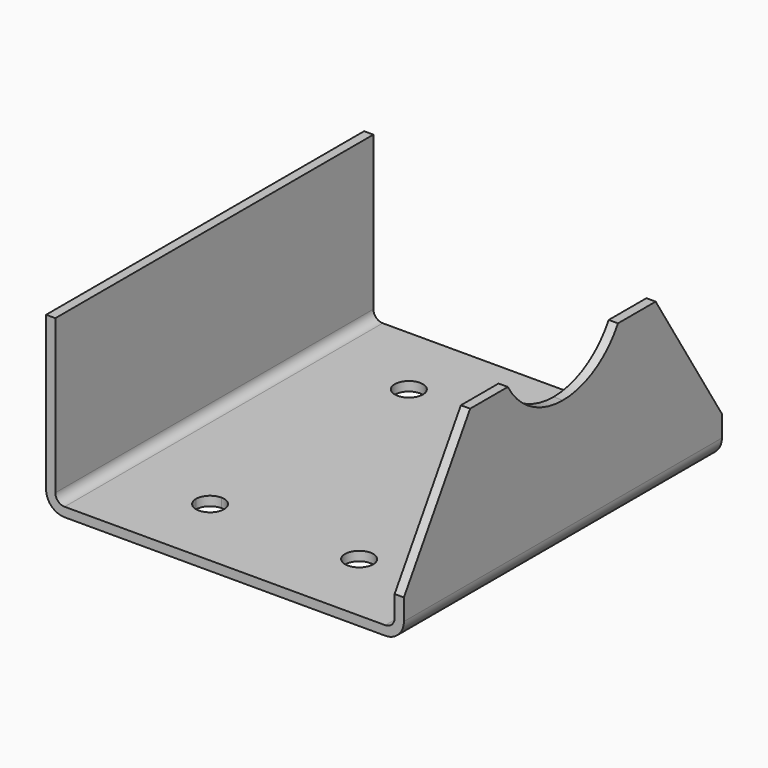
from build123d import *

# Parameters (mm, degrees)
F1_DEPTH = 120
F3_DEPTH = 3
F4_R     = 4.25
F5_DEPTH = 3


with BuildPart() as f1:
    # F0 (on Front) → F1 (new body)
    with BuildSketch(Plane.XZ):
        with BuildLine():
            ThreePointArc((-49.808191, 5.6), (-48.167989, 1.640202), (-44.208191, 0))
            Line((-44.208191, 0), (52.591809, 0))
            ThreePointArc((52.591809, 0), (56.551607, 1.640202), (58.191809, 5.6))
            Line((58.191809, 5.6), (58.191809, 52))
            Line((58.191809, 52), (55.391809, 52))
            Line((55.391809, 52), (55.391809, 5.6))
            ThreePointArc((55.391809, 5.6), (54.571708, 3.620101), (52.591809, 2.8))
            Line((52.591809, 2.8), (6.991809, 2.8))
            Line((6.991809, 2.8), (-44.208191, 2.8))
            ThreePointArc((-44.208191, 2.8), (-46.18809, 3.620101), (-47.008191, 5.6))
            Line((-47.008191, 5.6), (-47.008191, 52))
            Line((-47.008191, 52), (-49.808191, 52))
            Line((-49.808191, 52), (-49.808191, 5.6))
        make_face()
    extrude(amount=F1_DEPTH)

    # F2 (on face) → F3 (cut)
    with BuildSketch(Plane.YZ.offset(58.191809)):
        Polygon((-95, 52), (-120, 52), (-120, 12), align=None)
        with BuildLine():
            Line((-60, 64), (-60, 52))
            Line((-60, 52), (-60, 40))
            ThreePointArc((-60, 40), (-43.029437, 47.029437), (-36, 64))
            Line((-36, 64), (-60, 64))
        make_face()
        with BuildLine():
            Line((-60, 40), (-60, 52))
            Line((-60, 52), (-60, 64))
            Line((-60, 64), (-84, 64))
            ThreePointArc((-84, 64), (-76.970563, 47.029437), (-60, 40))
        make_face()
        with BuildLine():
            Line((-84, 64), (-60, 64))
            Line((-60, 64), (-36, 64))
            ThreePointArc((-36, 64), (-60, 88), (-84, 64))
        make_face()
        Polygon((0, 52), (-25, 52), (0, 12), align=None)
    extrude(amount=-F3_DEPTH, mode=Mode.SUBTRACT)

    # F4 (on face) → F5 (cut)
    with BuildSketch(Plane(origin=(0, 0, 0), x_dir=(1, 0, 0), z_dir=(0, 0, -1))):
        with BuildLine():
            Line((-22.558191, 97.5), (-18.308191, 97.5))
            Line((-18.308191, 97.5), (-14.058191, 97.5))
            ThreePointArc((-14.058191, 97.5), (-18.308191, 101.75), (-22.558191, 97.5))
        make_face()
        with BuildLine():
            Line((-18.308191, 93.25), (-18.308191, 97.5))
            Line((-18.308191, 97.5), (-22.558191, 97.5))
            ThreePointArc((-22.558191, 97.5), (-21.313395, 94.494796), (-18.308191, 93.25))
        make_face()
        with BuildLine():
            Line((-14.058191, 97.5), (-18.308191, 97.5))
            Line((-18.308191, 97.5), (-18.308191, 93.25))
            ThreePointArc((-18.308191, 93.25), (-15.302987, 94.494796), (-14.058191, 97.5))
        make_face()
        with BuildLine():
            ThreePointArc((30.941809, 97.5), (26.691809, 101.75), (22.441809, 97.5))
            Line((22.441809, 97.5), (30.941809, 97.5))
        make_face()
        with BuildLine():
            Line((30.941809, 97.5), (22.441809, 97.5))
            ThreePointArc((22.441809, 97.5), (26.691809, 93.25), (30.941809, 97.5))
        make_face()
        with BuildLine():
            ThreePointArc((-14.058191, 22.5), (-15.302987, 25.505204), (-18.308191, 26.75))
            ThreePointArc((-18.308191, 26.75), (-21.313395, 19.494796), (-14.058191, 22.5))
        make_face()
        with Locations((26.691809, 22.5)):
            Circle(F4_R)
    extrude(amount=-F5_DEPTH, mode=Mode.SUBTRACT)


solid = f1.part
